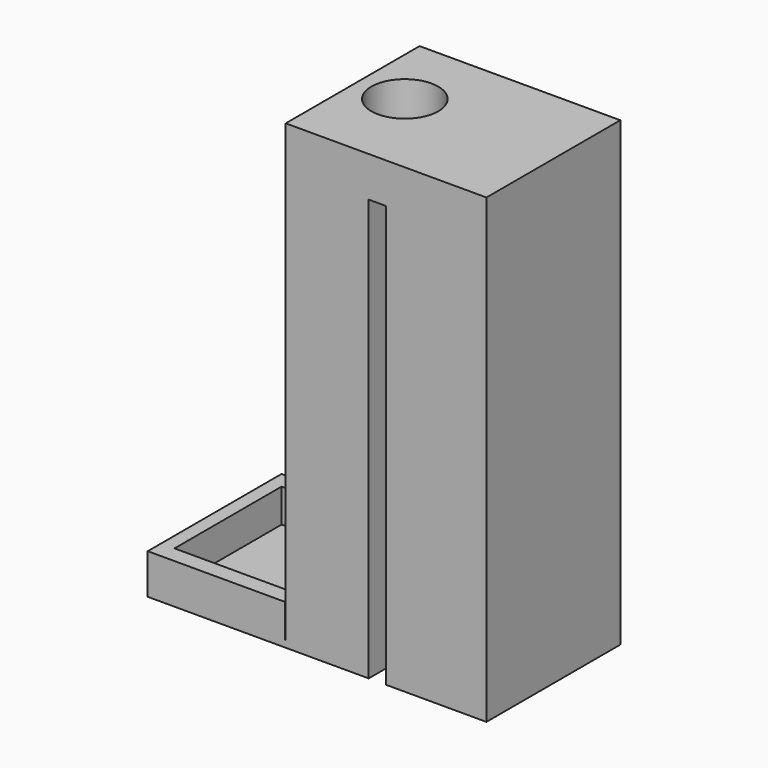
from build123d import *

# Parameters (mm, degrees)
CYLINDER_R          = 10
CYLINDER_DEPTH      = 129
CONE001_PITCH_ANGLE = 45
BOX002_W            = 5.2
BOX002_H            = 50
BOX002_DEPTH        = 126
BOX001_W            = 60
BOX001_H            = 50
BOX001_DEPTH        = 138
BOX005_W            = 4
BOX005_H            = 50
BOX005_DEPTH        = 12
BOX004_W            = 66
BOX004_H            = 50
BOX004_DEPTH        = 2
BOX006_W            = 41
BOX006_H            = 5
BOX006_DEPTH        = 12
BOX007_W            = 41
BOX007_H            = 5
BOX007_DEPTH        = 12


with BuildPart() as cylinder:
    # Cylinder → Cylinder (new body)
    with BuildSketch(Plane(origin=(-16, 59, 11), x_dir=(1, 0, 0), z_dir=(0, 0, 1))):
        Circle(CYLINDER_R)
    extrude(amount=CYLINDER_DEPTH)


with BuildPart() as cone001:
    # Cone001 → Cone001 (revolve)
    with BuildSketch(Plane.XZ):
        Polygon((0, 0), (5, 0), (12, 28), (0, 28), align=None)
    revolve(axis=Axis((0, 0, 0), (0, 0, 1)))


with BuildPart() as cone001_1:
    # Cone001 pitch: moved
    add(cone001.part.rotate(Axis((0, 0, 0), (0, 1, 0)), CONE001_PITCH_ANGLE))


with BuildPart() as cone001_2:
    # Cone001 placement: moved
    add(cone001_1.part.moved(Location((-32, 59, -2.5))))


with BuildPart() as cube002:
    # Box002 → Box002 (new body)
    with BuildSketch(Plane(origin=(-5.2, 32, -10), x_dir=(1, 0, 0), z_dir=(0, 0, 1))):
        with Locations((2.6, 25)):
            Rectangle(BOX002_W, BOX002_H)
    extrude(amount=BOX002_DEPTH)


with BuildPart() as cut002:
    # Box001 → Box001 (new body)
    with BuildSketch(Plane(origin=(-30, 32, -10), x_dir=(1, 0, 0), z_dir=(0, 0, 1))):
        with Locations((30, 25)):
            Rectangle(BOX001_W, BOX001_H)
    extrude(amount=BOX001_DEPTH)

    # Cut: cut Cube002
    add(cube002.part, mode=Mode.SUBTRACT)

    # Cut001: cut Cone001
    add(cone001_2.part, mode=Mode.SUBTRACT)

    # Cut002: cut Cylinder
    add(cylinder.part, mode=Mode.SUBTRACT)


with BuildPart() as cube005:
    # Box005 → Box005 (new body)
    with BuildSketch(Plane(origin=(-215, 176, -4), x_dir=(1, 0, 0), z_dir=(0, 0, 1))):
        with Locations((2, 25)):
            Rectangle(BOX005_W, BOX005_H)
    extrude(amount=BOX005_DEPTH)


with BuildPart() as fusion001:
    # Box004 → Box004 (new body)
    with BuildSketch(Plane(origin=(-215, 176, -4), x_dir=(1, 0, 0), z_dir=(0, 0, 1))):
        with Locations((33, 25)):
            Rectangle(BOX004_W, BOX004_H)
    extrude(amount=BOX004_DEPTH)

    # Fusion001: union Cube005
    add(cube005.part)


with BuildPart() as cube006:
    # Box006 → Box006 (new body)
    with BuildSketch(Plane(origin=(-215, 176, -4), x_dir=(1, 0, 0), z_dir=(0, 0, 1))):
        with Locations((20.5, 2.5)):
            Rectangle(BOX006_W, BOX006_H)
    extrude(amount=BOX006_DEPTH)


with BuildPart() as fusion003:
    # Box007 → Box007 (new body)
    with BuildSketch(Plane(origin=(-215, 221, -4), x_dir=(1, 0, 0), z_dir=(0, 0, 1))):
        with Locations((20.5, 2.5)):
            Rectangle(BOX007_W, BOX007_H)
    extrude(amount=BOX007_DEPTH)

    # Fusion: union Cube006
    add(cube006.part)

    # Fusion002: union Fusion001
    add(fusion001.part)


with BuildPart() as fusion003_1:
    # Fusion002 placement: moved
    add(fusion003.part.moved(Location((143.75, -144, -6))))

    # Fusion003: union Cut002
    add(cut002.part)


solid = fusion003_1.part
